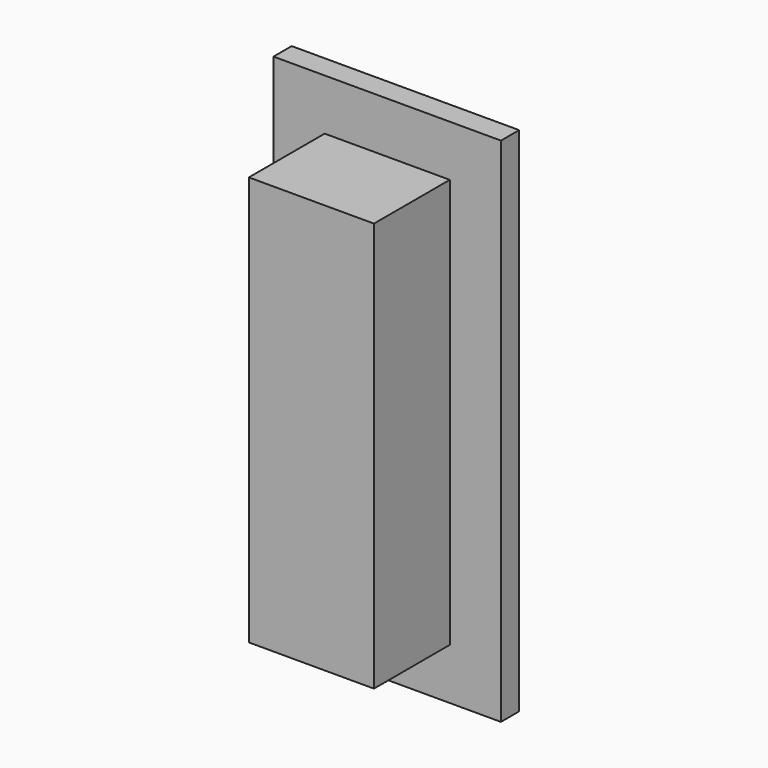
from build123d import *

# Parameters (mm, degrees)
F0_W     = 12
F0_H     = 27
F0_W_2   = 5
F0_H_2   = 20
F1_DEPTH = 1.2
F3_DEPTH = 4.2
F4_W     = 6.6
F4_H     = 21.6
F5_DEPTH = 0.8


with BuildPart() as f1:
    # F0 (on Front) → F1 (new body)
    with BuildSketch(Plane.XZ):
        Rectangle(F0_W, F0_H)
        Rectangle(F0_W_2, F0_H_2, mode=Mode.SUBTRACT)
    extrude(amount=F1_DEPTH)

    # F2 (on face) → F3 (join)
    with BuildSketch(Plane.XZ.offset(1.2)):
        Polygon((-2.5, -10.8), (-2.5, 10), (2.5, 10), (2.5, -10), (2.5, -10.8), (3.3, -10.8), (3.3, 10.8), (-3.3, 10.8), (-3.3, -10.8), align=None)
    extrude(amount=F3_DEPTH)

    # F4 (on face) → F5 (join)
    with BuildSketch(Plane.XZ.offset(5.4)):
        Rectangle(F4_W, F4_H)
    extrude(amount=F5_DEPTH)


solid = f1.part
